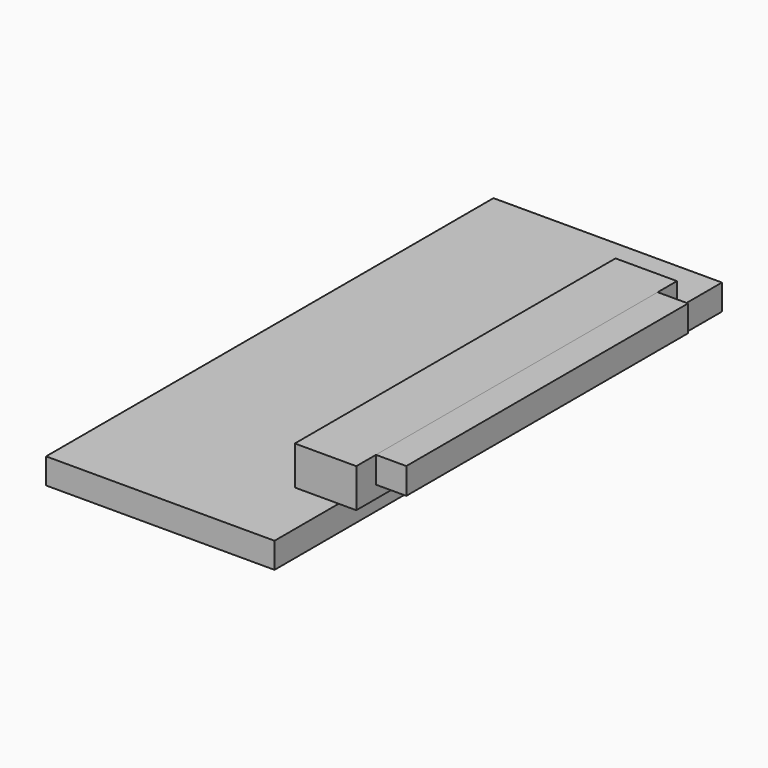
from build123d import *

# Parameters (mm, degrees)
F0_W     = 131.148472
F0_H     = 14.718821
F4_DEPTH = 160.528
F1_W     = 35.287433
F1_H     = 22.266936
F5_DEPTH = 115.062
F6_W     = 17.45475
F6_H     = 15.074555
F7_DEPTH = 101.092


with BuildPart() as f4:
    # F0 (on Front) → F4 (new body, symmetric)
    with BuildSketch(Plane.XZ):
        with Locations((0.188701, 0.283053)):
            Rectangle(F0_W, F0_H)
    extrude(amount=F4_DEPTH, both=True)


with BuildPart() as f5:
    # F1 (on Front) → F5 (new body, symmetric)
    with BuildSketch(Plane.XZ):
        with Locations((58.686581, 19.153338)):
            Rectangle(F1_W, F1_H)
    extrude(amount=F5_DEPTH, both=True)


with BuildPart() as f7:
    # F6 (on face) → F7 (new body, symmetric)
    with BuildSketch(Plane.XZ):
        with Locations((85.143011, 22.837007)):
            Rectangle(F6_W, F6_H)
    extrude(amount=F7_DEPTH, both=True)


solid = Compound([f4.part, f5.part, f7.part])
